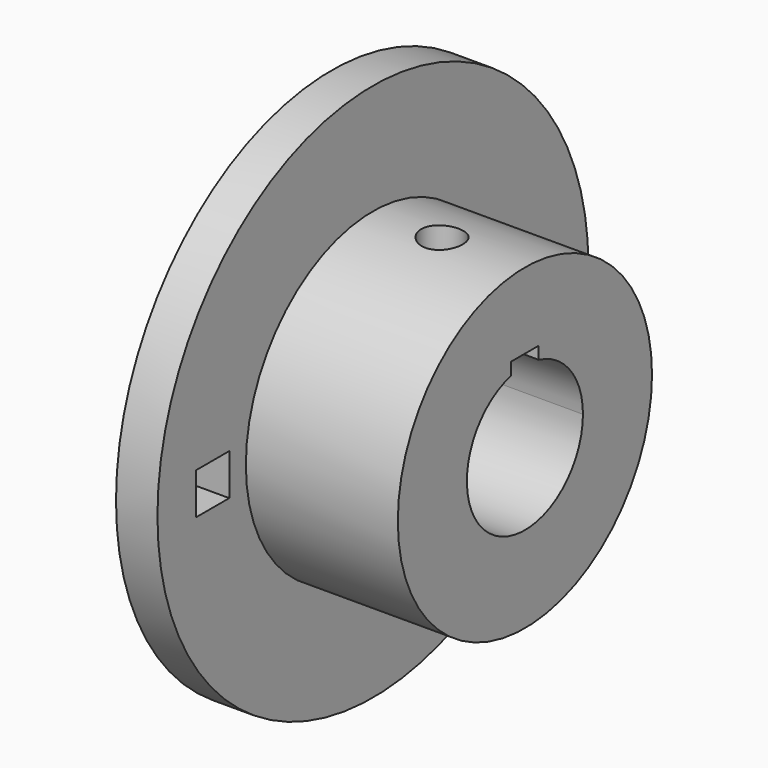
from build123d import *

# Parameters (mm, degrees)
F0_R     = 73.025
F1_DEPTH = 88.9
F0_R_2   = 123.825
F2_DEPTH = 19.05
F3_R     = 9.525
F4_DEPTH = 123.826


with BuildPart() as f1:
    # F0 (on Right) → F1 (new body)
    with BuildSketch(Plane.YZ):
        Circle(F0_R)
        with BuildLine():
            ThreePointArc((7.9375, 32.378774), (26.229805, 20.576352), (33.3375, 0))
            ThreePointArc((33.3375, 0), (-20.576352, -26.229805), (-7.9375, 32.378774))
            Line((-7.9375, 32.378774), (-7.9375, 38.1))
            Line((-7.9375, 38.1), (7.9375, 38.1))
            Line((7.9375, 38.1), (7.9375, 32.378774))
        make_face(mode=Mode.SUBTRACT)
    extrude(amount=F1_DEPTH)

    # F0 (on Right) → F2 (join)
    with BuildSketch(Plane.YZ):
        Circle(F0_R_2)
        Polygon((-101.6, -9.525), (-101.6, 9.525), (-82.55, 9.525), (-82.55, 0), (-82.55, -9.525), align=None, mode=Mode.SUBTRACT)
        Circle(F0_R, mode=Mode.SUBTRACT)
        Polygon((82.55, 0), (82.55, 9.525), (101.6, 9.525), (101.6, -9.525), (82.55, -9.525), align=None, mode=Mode.SUBTRACT)
    extrude(amount=F2_DEPTH)

    # F3 (on Top) → F4 (cut, through all)
    with BuildSketch(Plane.XY):
        with Locations((50.8, 0)):
            Circle(F3_R)
    extrude(amount=F4_DEPTH, mode=Mode.SUBTRACT)


solid = f1.part
